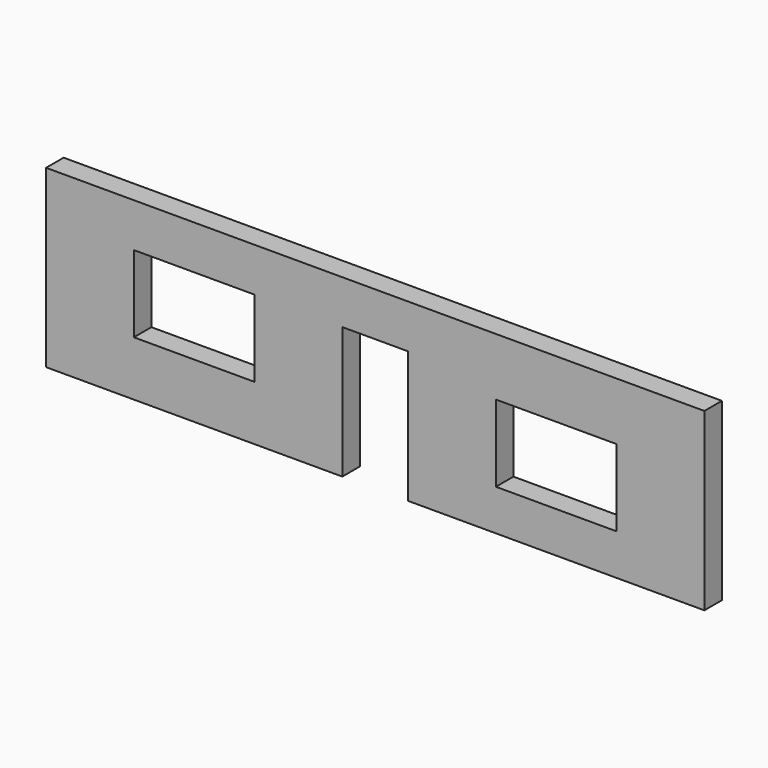
from build123d import *

# Parameters (mm, degrees)
F0_W     = 762
F0_H     = 203.2
F1_DEPTH = 25.4
F2_W     = 139.7
F2_H     = 88.9
F3_DEPTH = 50.8
F2_W_2   = 76.2
F2_H_2   = 152.4
F4_DEPTH = 50.8
F5_DEPTH = 50.8


with BuildPart() as f1:
    # F0 (on Front) → F1 (new body)
    with BuildSketch(Plane.XZ):
        with Locations((-1.348659, -86.213874)):
            Rectangle(F0_W, F0_H)
    extrude(amount=F1_DEPTH)

    # F2 (on face) → F3 (cut)
    with BuildSketch(Plane.XZ.offset(25.4)):
        with Locations((-210.898659, -79.863874)):
            Rectangle(F2_W, F2_H)
    extrude(amount=-F3_DEPTH, mode=Mode.SUBTRACT)

    # F2 (on face) → F4 (cut)
    with BuildSketch(Plane.XZ.offset(25.4)):
        with Locations((-1.348659, -111.613874)):
            Rectangle(F2_W_2, F2_H_2)
    extrude(amount=-F4_DEPTH, mode=Mode.SUBTRACT)

    # F2 (on face) → F5 (cut)
    with BuildSketch(Plane.XZ.offset(25.4)):
        with Locations((208.201341, -95.893279)):
            Rectangle(F2_W, F2_H)
    extrude(amount=-F5_DEPTH, mode=Mode.SUBTRACT)


solid = f1.part
